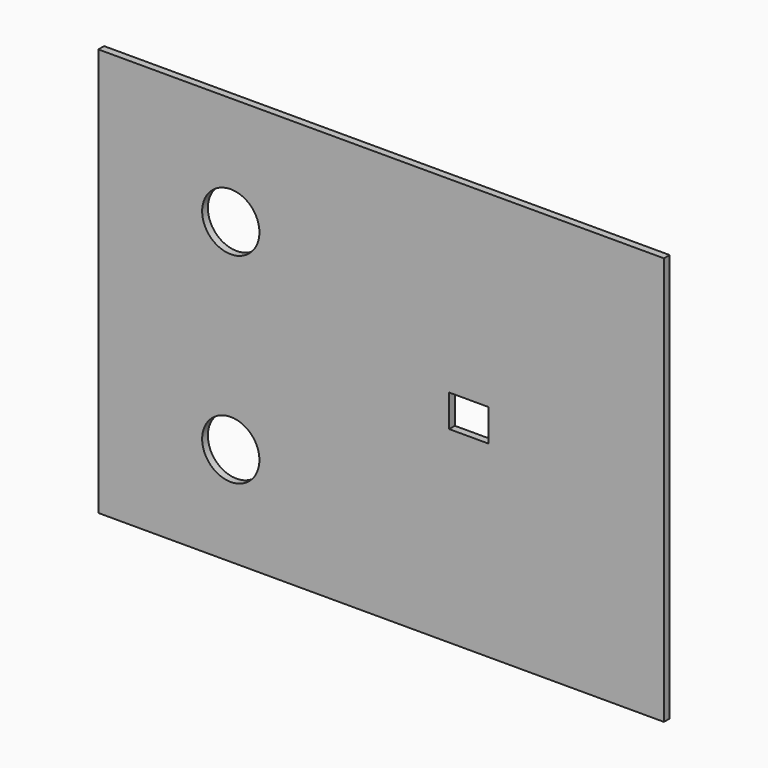
from build123d import *

# Parameters (mm, degrees)
F0_W     = 1003.3
F0_H     = 723.9
F1_DEPTH = 12.7
F2_W     = 69.85
F2_H     = 57.15
F3_DEPTH = 12.701
F4_R     = 50.8
F5_DEPTH = 12.701


with BuildPart() as f1:
    # F0 (on Front) → F1 (new body)
    with BuildSketch(Plane.XZ):
        with Locations((-501.65, 0)):
            Rectangle(F0_W, F0_H)
    extrude(amount=F1_DEPTH)

    # F2 (on Front) → F3 (cut, through all)
    with BuildSketch(Plane.XZ):
        with Locations((-346.075, 0)):
            Rectangle(F2_W, F2_H)
    extrude(amount=F3_DEPTH, mode=Mode.SUBTRACT)

    # F4 (on Front) → F5 (cut, through all)
    with BuildSketch(Plane.XZ):
        with Locations((-768.35, 169.221888)):
            Circle(F4_R)
        with Locations((-768.35, -186.378112)):
            Circle(F4_R)
    extrude(amount=F5_DEPTH, mode=Mode.SUBTRACT)


solid = f1.part
